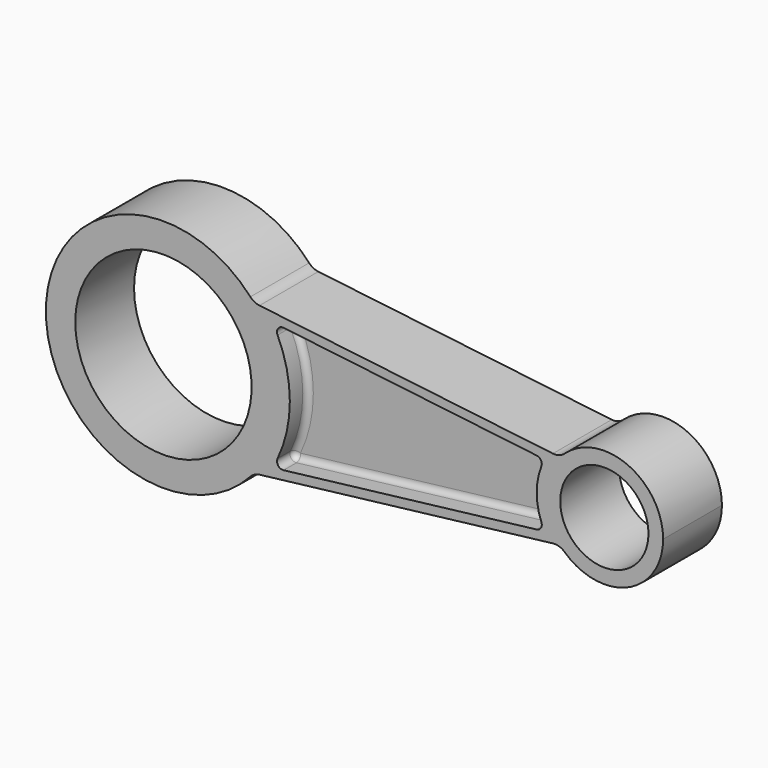
from build123d import *

# Parameters (mm, degrees)
F1_DEPTH = 12.5
F3_DEPTH = 7.5
F4_R     = 2
F5_R     = 2
F8_D     = 60
F9_D     = 30
F10_R    = 5


with BuildPart() as f1:
    # F0 (on Front) → F1 (new body)
    with BuildSketch(Plane.XZ):
        with BuildLine():
            ThreePointArc((-44.228067, -25.55559), (-37.377684, -13.585336), (-35, 0))
            ThreePointArc((-35, 0), (-37.377684, 13.585336), (-44.228067, 25.55559))
            ThreePointArc((-44.228067, 25.55559), (-115, 0), (-44.228067, -25.55559))
        make_face()
        with BuildLine():
            ThreePointArc((-44.228067, 25.55559), (-37.377684, 13.585336), (-35, 0))
            ThreePointArc((-35, 0), (-37.377684, -13.585336), (-44.228067, -25.55559))
            Line((-44.228067, -25.55559), (59.939192, -13.159486))
            ThreePointArc((59.939192, -13.159486), (55, 0), (59.939192, 13.159486))
            Line((59.939192, 13.159486), (-44.228067, 25.55559))
        make_face()
        with BuildLine():
            ThreePointArc((95, 0), (82.027938, 18.724532), (59.939192, 13.159486))
            ThreePointArc((59.939192, 13.159486), (55, 0), (59.939192, -13.159486))
            ThreePointArc((59.939192, -13.159486), (82.027938, -18.724532), (95, 0))
        make_face()
    extrude(amount=F1_DEPTH)

    # F2 (on face) → F3 (cut)
    with BuildSketch(Plane.XZ.offset(12.5)):
        with BuildLine():
            Line((54.674672, 10.764806), (-37.926643, 21.78454))
            ThreePointArc((-37.926643, 21.78454), (-32, 0), (-37.926643, -21.78454))
            Line((-37.926643, -21.78454), (54.674672, -10.764806))
            ThreePointArc((54.674672, -10.764806), (52, 0), (54.674672, 10.764806))
        make_face()
    extrude(amount=-F3_DEPTH, mode=Mode.SUBTRACT)

    # F4
    f4_edges = [f1.edges().sort_by_distance(p)[0] for p in [
        (-37.926643, -8.75, -21.78454),
        (54.674672, -8.75, 10.764806),
        (54.674672, -8.75, -10.764806),
        (-37.926643, -8.75, 21.78454),
    ]]
    fillet(f4_edges, radius=F4_R)

    # F5
    f5_edges = [f1.edges().sort_by_distance(p)[0] for p in [
        (8.908671, -5, 16.211048),
    ]]
    fillet(f5_edges, radius=F5_R)

    # F6: F1 across plane


with BuildPart() as f1_1:
    add(f1.part)
    add(f1.part.mirror(Plane.XZ))

    # F8 (through all)
    with Locations(Plane.XZ.offset(12.5)):
        with Locations((-75, 0)):
            Hole(F8_D / 2)

    # F9 (through all)
    with Locations(Plane.XZ.offset(12.5)):
        with Locations((75, 0)):
            Hole(F9_D / 2)

    # F10
    f10_edges = [f1_1.edges().sort_by_distance(p)[0] for p in [
        (-44.228067, -6.25, 25.55559),
        (59.939192, -6.25, 13.159486),
        (-44.228067, -6.25, -25.55559),
        (59.939192, -6.25, -13.159486),
    ]]
    fillet(f10_edges, radius=F10_R)


solid = f1_1.part
